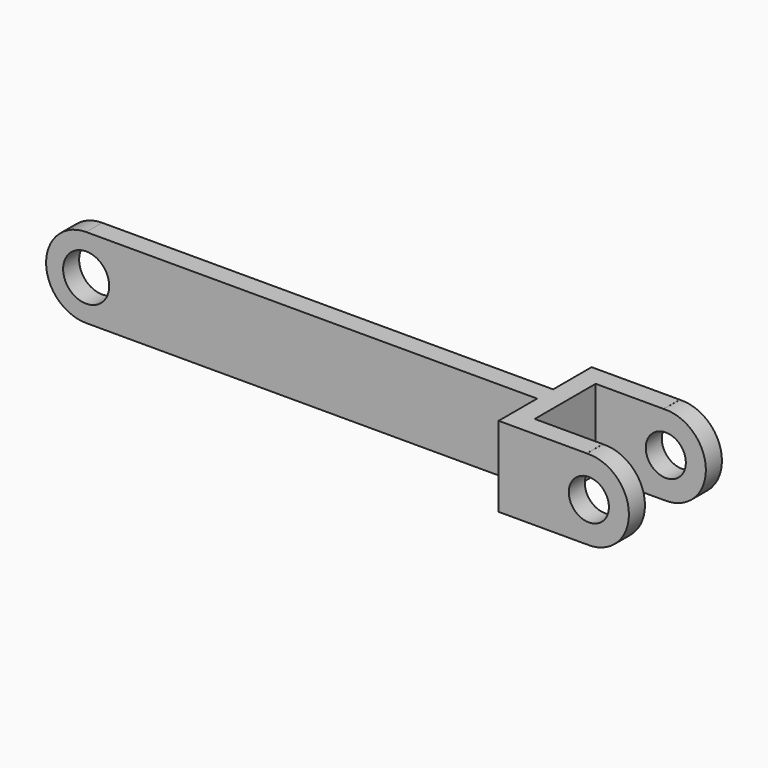
from build123d import *

# Parameters (mm, degrees)
CYLINDER003_R     = 2
CYLINDER003_DEPTH = 2
BOX002_W          = 6.8
BOX002_H          = 2
BOX002_DEPTH      = 8
CYLINDER002_R     = 4
CYLINDER002_DEPTH = 2
CYLINDER001_R     = 2.3
CYLINDER001_DEPTH = 2
CYLINDER_R        = 4
CYLINDER_DEPTH    = 2
BOX_W             = 45
BOX_H             = 2
BOX_DEPTH         = 8
CYLINDER005_R     = 2
CYLINDER005_DEPTH = 2
BOX003_W          = 6.8
BOX003_H          = 2
BOX003_DEPTH      = 8
CYLINDER004_R     = 4
CYLINDER004_DEPTH = 2
BOX001_W          = 2
BOX001_H          = 11.6
BOX001_DEPTH      = 8


with BuildPart() as cylinder003:
    # Cylinder003 → Cylinder003 (new body)
    with BuildSketch(Plane(origin=(54, 6.8, 4), x_dir=(1, 0, 0), z_dir=(0, -1, 0))):
        Circle(CYLINDER003_R)
    extrude(amount=CYLINDER003_DEPTH)


with BuildPart() as cube002:
    # Box002 → Box002 (new body)
    with BuildSketch(Plane(origin=(47, 4.8, 0), x_dir=(1, 0, 0), z_dir=(0, 0, 1))):
        with Locations((3.4, 1)):
            Rectangle(BOX002_W, BOX002_H)
    extrude(amount=BOX002_DEPTH)


with BuildPart() as cut001:
    # Cylinder002 → Cylinder002 (new body)
    with BuildSketch(Plane(origin=(54, 6.8, 4), x_dir=(1, 0, 0), z_dir=(0, -1, 0))):
        Circle(CYLINDER002_R)
    extrude(amount=CYLINDER002_DEPTH)

    # Fusion001: union Cube002
    add(cube002.part)

    # Cut001: cut Cylinder003
    add(cylinder003.part, mode=Mode.SUBTRACT)


with BuildPart() as cylinder001:
    # Cylinder001 → Cylinder001 (new body)
    with BuildSketch(Plane(origin=(0, 2, 4), x_dir=(1, 0, 0), z_dir=(0, -1, 0))):
        Circle(CYLINDER001_R)
    extrude(amount=CYLINDER001_DEPTH)


with BuildPart() as cylinder:
    # Cylinder → Cylinder (new body)
    with BuildSketch(Plane(origin=(0, 0, 4), x_dir=(1, 0, 0), z_dir=(0, 1, 0))):
        Circle(CYLINDER_R)
    extrude(amount=CYLINDER_DEPTH)


with BuildPart() as cut:
    # Box → Box (new body)
    with BuildSketch(Plane.XY):
        with Locations((22.5, 1)):
            Rectangle(BOX_W, BOX_H)
    extrude(amount=BOX_DEPTH)

    # Fusion: union Cylinder
    add(cylinder.part)

    # Cut: cut Cylinder001
    add(cylinder001.part, mode=Mode.SUBTRACT)


with BuildPart() as cylinder005:
    # Cylinder005 → Cylinder005 (new body)
    with BuildSketch(Plane(origin=(54, 6.8, 4), x_dir=(1, 0, 0), z_dir=(0, -1, 0))):
        Circle(CYLINDER005_R)
    extrude(amount=CYLINDER005_DEPTH)


with BuildPart() as cube003:
    # Box003 → Box003 (new body)
    with BuildSketch(Plane(origin=(47, 4.8, 0), x_dir=(1, 0, 0), z_dir=(0, 0, 1))):
        with Locations((3.4, 1)):
            Rectangle(BOX003_W, BOX003_H)
    extrude(amount=BOX003_DEPTH)


with BuildPart() as cut002:
    # Cylinder004 → Cylinder004 (new body)
    with BuildSketch(Plane(origin=(54, 6.8, 4), x_dir=(1, 0, 0), z_dir=(0, -1, 0))):
        Circle(CYLINDER004_R)
    extrude(amount=CYLINDER004_DEPTH)

    # Fusion002: union Cube003
    add(cube003.part)

    # Cut002: cut Cylinder005
    add(cylinder005.part, mode=Mode.SUBTRACT)


with BuildPart() as cut002_1:
    # Cut002 placement: moved
    add(cut002.part.moved(Location((0, -9.6, 0))))


with BuildPart() as fusion003:
    # Box001 → Box001 (new body)
    with BuildSketch(Plane(origin=(45, -4.8, 0), x_dir=(1, 0, 0), z_dir=(0, 0, 1))):
        with Locations((1, 5.8)):
            Rectangle(BOX001_W, BOX001_H)
    extrude(amount=BOX001_DEPTH)

    # Fusion003: union Cut001, Cut, Cut002
    add(cut001.part)
    add(cut.part)
    add(cut002_1.part)


solid = fusion003.part
